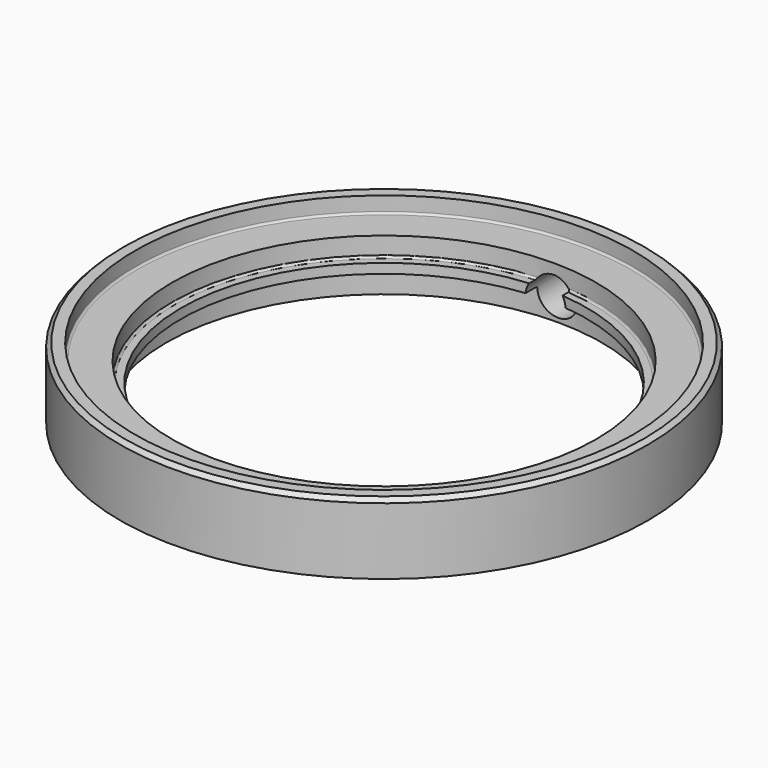
from build123d import *

# Parameters (mm, degrees)
F2_R     = 1.27
F3_DEPTH = 25.4


with BuildPart() as f1:
    # F0 (on Front) → F1 (revolve)
    with BuildSketch(Plane.XZ):
        with BuildLine():
            Line((16.6878, 0), (16.6878, 4.2164))
            Line((16.6878, 4.2164), (16.4338, 4.4704))
            Line((16.4338, 4.4704), (15.748, 4.4704))
            Line((15.748, 4.4704), (15.748, 3.5814))
            ThreePointArc((15.748, 3.5814), (15.710803, 3.491597), (15.621, 3.4544))
            Line((15.621, 3.4544), (13.4112, 3.4544))
            Line((13.4112, 3.4544), (13.4112, 2.3622))
            ThreePointArc((13.4112, 2.3622), (13.374003, 2.272397), (13.2842, 2.2352))
            Line((13.2842, 2.2352), (12.827, 2.2352))
            Line((12.827, 2.2352), (12.827, 1.6256))
            Line((12.827, 1.6256), (13.6398, 1.6256))
            ThreePointArc((13.6398, 1.6256), (13.729603, 1.588403), (13.7668, 1.4986))
            Line((13.7668, 1.4986), (13.7668, 0))
            Line((13.7668, 0), (16.6878, 0))
        make_face()
    revolve(axis=Axis((0, 0, 3.106934), (0, 0, 1)))

    # F2 (on Front) → F3 (cut)
    with BuildSketch(Plane.XZ):
        with Locations((0, 1.524)):
            Circle(F2_R)
    extrude(amount=-F3_DEPTH, mode=Mode.SUBTRACT)


solid = f1.part
